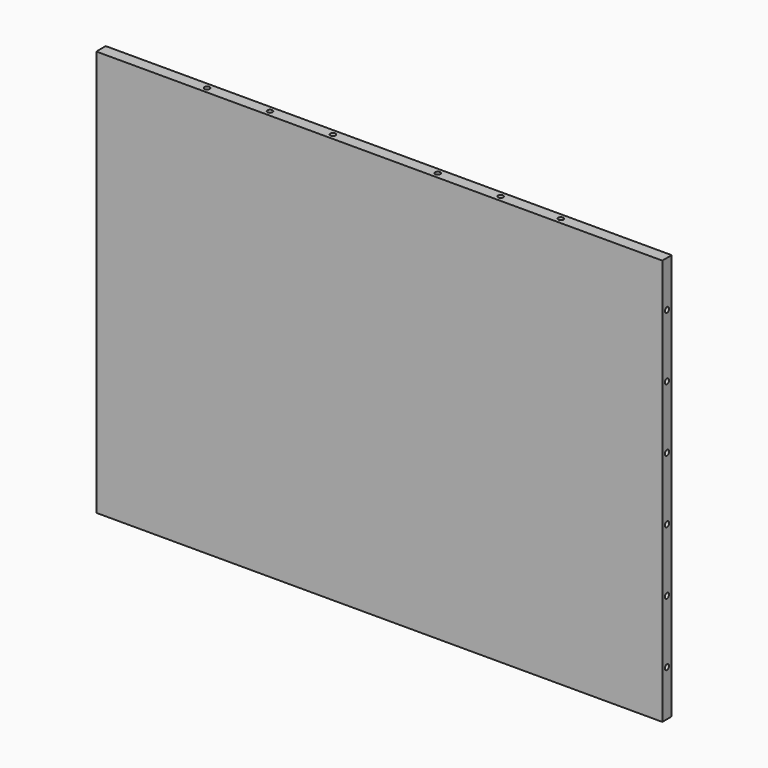
from build123d import *

# Parameters (mm, degrees)
F0_W     = 864
F0_H     = 18
F1_DEPTH = 620
F2_R     = 4
F3_DEPTH = 28
F4_R     = 4
F5_DEPTH = 28
F6_R     = 4
F7_DEPTH = 28
F8_R     = 4
F9_DEPTH = 28


with BuildPart() as f1:
    # F0 (on Top) → F1 (new body)
    with BuildSketch(Plane.XY):
        with Locations((6.244911, 0)):
            Rectangle(F0_W, F0_H)
    extrude(amount=F1_DEPTH)

    # F2 (on face) → F3 (cut)
    with BuildSketch(Plane(origin=(0, 0, 0), x_dir=(1, 0, 0), z_dir=(0, 0, -1))):
        with Locations((-263.755089, 0)):
            Circle(F2_R)
        with Locations((-167.755089, 0)):
            Circle(F2_R)
        with Locations((-71.755089, 0)):
            Circle(F2_R)
        with Locations((88.244911, 0)):
            Circle(F2_R)
        with Locations((276.244911, 0)):
            Circle(F2_R)
        with Locations((184.244911, 0)):
            Circle(F2_R)
    extrude(amount=-F3_DEPTH, mode=Mode.SUBTRACT)

    # F4 (on face) → F5 (cut)
    with BuildSketch(Plane.XY.offset(620)):
        with Locations((-263.755089, 0)):
            Circle(F4_R)
        with Locations((-167.755089, 0)):
            Circle(F4_R)
        with Locations((-71.755089, 0)):
            Circle(F4_R)
        with Locations((88.244911, 0)):
            Circle(F4_R)
        with Locations((276.244911, 0)):
            Circle(F4_R)
        with Locations((184.244911, 0)):
            Circle(F4_R)
    extrude(amount=-F5_DEPTH, mode=Mode.SUBTRACT)

    # F6 (on face) → F7 (cut)
    with BuildSketch(Plane.YZ.offset(438.244911)):
        with Locations((0, 550)):
            Circle(F6_R)
        with Locations((0, 454)):
            Circle(F6_R)
        with Locations((0, 358)):
            Circle(F6_R)
        with Locations((0, 262)):
            Circle(F6_R)
        with Locations((0, 166)):
            Circle(F6_R)
        with Locations((0, 70)):
            Circle(F6_R)
    extrude(amount=-F7_DEPTH, mode=Mode.SUBTRACT)

    # F8 (on face) → F9 (join)
    with BuildSketch(Plane(origin=(-425.755089, 0, 0), x_dir=(0, -1, 0), z_dir=(-1, 0, 0))):
        with Locations((0, 550)):
            Circle(F8_R)
        with Locations((0, 454)):
            Circle(F8_R)
        with Locations((0, 358)):
            Circle(F8_R)
        with Locations((0, 262)):
            Circle(F8_R)
        with Locations((0, 166)):
            Circle(F8_R)
        with Locations((0, 70)):
            Circle(F8_R)
    extrude(amount=-F9_DEPTH)


solid = f1.part
